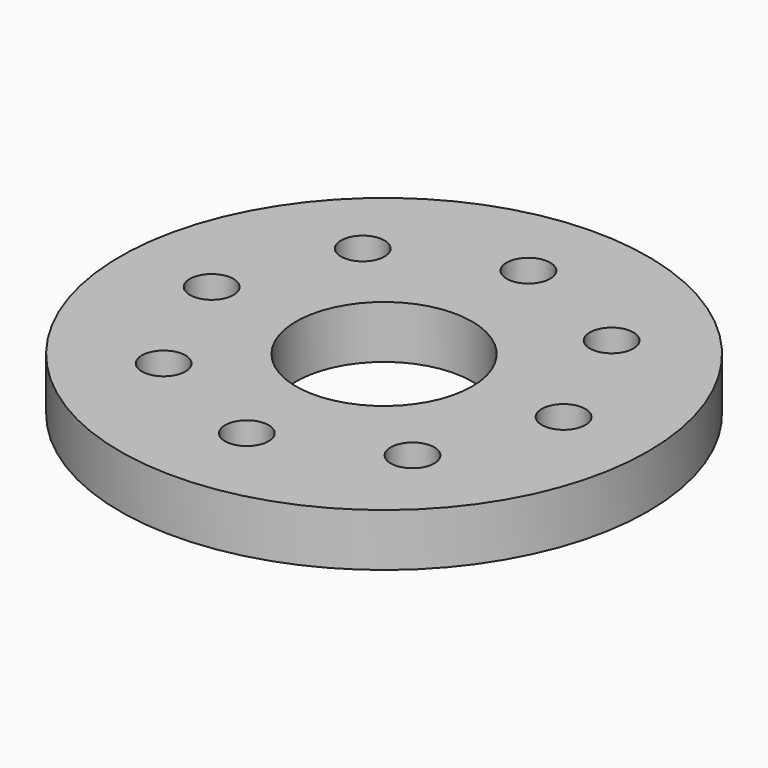
from build123d import *

# Parameters (mm, degrees)
F0_R     = 75
F1_DEPTH = 15
F2_R     = 6.2
F3_DEPTH = 25
F4_R     = 25
F5_DEPTH = 25


with BuildPart() as f1:
    # F0 (on Top) → F1 (new body)
    with BuildSketch(Plane.XY):
        Circle(F0_R)
    extrude(amount=F1_DEPTH)

    # F2 (on face) → F3 (cut)
    with BuildSketch(Plane.XY.offset(15)):
        with Locations((0, 51.259788)):
            Circle(F2_R)
        with Locations((-35.355339, -34.095551)):
            Circle(F2_R)
        with Locations((-50, 1.259788)):
            Circle(F2_R)
        with Locations((-35.355339, 36.615127)):
            Circle(F2_R)
        with Locations((0, -48.740212)):
            Circle(F2_R)
        with Locations((35.355339, -34.095551)):
            Circle(F2_R)
        with Locations((50, 1.259788)):
            Circle(F2_R)
        with Locations((35.355339, 36.615127)):
            Circle(F2_R)
    extrude(amount=-F3_DEPTH, mode=Mode.SUBTRACT)

    # F4 (on face) → F5 (cut)
    with BuildSketch(Plane.XY.offset(15)):
        Circle(F4_R)
    extrude(amount=-F5_DEPTH, mode=Mode.SUBTRACT)


solid = f1.part
